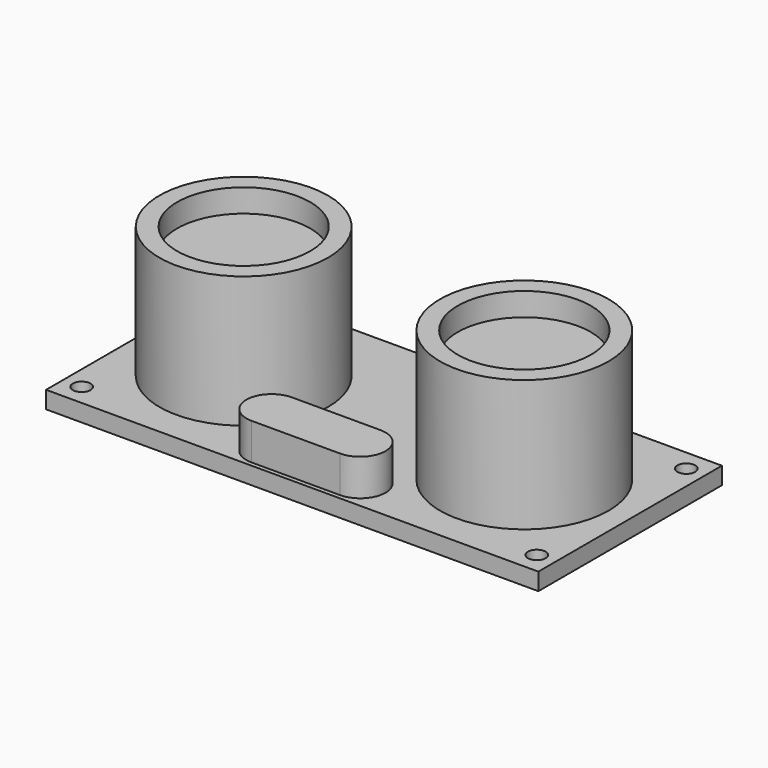
from build123d import *

# Parameters (mm, degrees)
F0_R     = 0.825
F0_R_2   = 7.825
F0_W     = 2.625
F0_H     = 2.7
F1_DEPTH = 1.6
F0_R_3   = 6.175
F2_DEPTH = 13.8
F3_DEPTH = 11.65
F4_DEPTH = 3.1
F5_W     = 0.8
F5_H     = 0.8
F6_DEPTH = 2.4
F8_DEPTH = 0.8
F9_DEPTH = 5
F10_R    = 0.3


with BuildPart() as f1:
    # F0 (on Top) → F1 (new body)
    with BuildSketch(Plane.XY):
        Polygon((22.85, -10.65), (22.85, 10.65), (5.25, 10.65), (5.25, 7.95), (2.625, 7.95), (0, 7.95), (-2.625, 7.95), (-5.25, 7.95), (-5.25, 10.65), (-22.85, 10.65), (-22.85, -10.65), align=None)
        with Locations((-21.125, -8.675)):
            Circle(F0_R, mode=Mode.SUBTRACT)
        with BuildLine():
            ThreePointArc((-4.1107536526, -10.25), (-6.4607536526, -7.9), (-4.1107536526, -5.55))
            Line((-4.1107536526, -5.55), (4.1107536526, -5.55))
            ThreePointArc((4.1107536526, -5.55), (6.4607536526, -7.9), (4.1107536526, -10.25))
            Line((4.1107536526, -10.25), (-4.1107536526, -10.25))
        make_face(mode=Mode.SUBTRACT)
        with Locations((21.125, -8.675)):
            Circle(F0_R, mode=Mode.SUBTRACT)
        with Locations((-13.025, 0)):
            Circle(F0_R_2, mode=Mode.SUBTRACT)
        with Locations((-21.125, 8.675)):
            Circle(F0_R, mode=Mode.SUBTRACT)
        with Locations((13.025, 0)):
            Circle(F0_R_2, mode=Mode.SUBTRACT)
        with Locations((21.125, 8.675)):
            Circle(F0_R, mode=Mode.SUBTRACT)
        with Locations((-3.9375, 9.3)):
            Rectangle(F0_W, F0_H)
        with Locations((-1.3125, 9.3)):
            Rectangle(F0_W, F0_H)
        with Locations((1.3125, 9.3)):
            Rectangle(F0_W, F0_H)
        with Locations((3.9375, 9.3)):
            Rectangle(F0_W, F0_H)
    extrude(amount=F1_DEPTH)

    # F0 (on Top) → F2 (join)
    with BuildSketch(Plane.XY):
        with Locations((13.025, 0)):
            Circle(F0_R_2)
        with Locations((13.025, 0)):
            Circle(F0_R_3, mode=Mode.SUBTRACT)
        with Locations((-13.025, 0)):
            Circle(F0_R_2)
        with Locations((-13.025, 0)):
            Circle(F0_R_3, mode=Mode.SUBTRACT)
    extrude(amount=F2_DEPTH)

    # F0 (on Top) → F3 (join)
    with BuildSketch(Plane.XY):
        with Locations((-13.025, 0)):
            Circle(F0_R_3)
        with Locations((13.025, 0)):
            Circle(F0_R_3)
    extrude(amount=F3_DEPTH)

    # F0 (on Top) → F4 (join)
    with BuildSketch(Plane.XY):
        with Locations((-3.9375, 9.3)):
            Rectangle(F0_W, F0_H)
        with Locations((-1.3125, 9.3)):
            Rectangle(F0_W, F0_H)
        with Locations((1.3125, 9.3)):
            Rectangle(F0_W, F0_H)
        with Locations((3.9375, 9.3)):
            Rectangle(F0_W, F0_H)
    extrude(amount=-F4_DEPTH)

    # F5 (on face) → F6 (join)
    with BuildSketch(Plane(origin=(0, 0, -3.1), x_dir=(1, 0, 0), z_dir=(0, 0, -1))):
        with Locations((-3.9375, -9.3)):
            Rectangle(F5_W, F5_H)
        with Locations((-1.3125100119, -9.3)):
            Rectangle(F5_W, F5_H)
        with Locations((1.3124799761, -9.3)):
            Rectangle(F5_W, F5_H)
        with Locations((3.9374699642, -9.3)):
            Rectangle(F5_W, F5_H)
    extrude(amount=F6_DEPTH)

    # F7 (on face) → F8 (join)
    with BuildSketch(Plane(origin=(0, 0, -5.5), x_dir=(1, 0, 0), z_dir=(0, 0, -1))):
        Polygon((-4.3375, -8.9), (-4.3375, -9.7), (-4.3375, -16.8), (-3.5375, -16.8), (-3.5375, -9.7), (-3.5375, -8.9), align=None)
        Polygon((-1.7125100119, -8.9), (-1.7125100119, -9.7), (-1.7125100119, -16.8), (-0.9125100119, -16.8), (-0.9125100119, -9.7), (-0.9125100119, -8.9), align=None)
        Polygon((0.9124799761, -8.9), (0.9124799761, -9.7), (0.9124799761, -16.8), (1.7124799761, -16.8), (1.7124799761, -9.7), (1.7124799761, -8.9), align=None)
        Polygon((3.5374699642, -8.9), (3.5374699642, -9.7), (3.5374699642, -16.8), (4.3374699642, -16.8), (4.3374699642, -9.7), (4.3374699642, -8.9), align=None)
    extrude(amount=-F8_DEPTH)

    # F0 (on Top) → F9 (join)
    with BuildSketch(Plane.XY):
        with BuildLine():
            Line((4.1107536526, -5.55), (-4.1107536526, -5.55))
            ThreePointArc((-4.1107536526, -5.55), (-6.4607536526, -7.9), (-4.1107536526, -10.25))
            Line((-4.1107536526, -10.25), (4.1107536526, -10.25))
            ThreePointArc((4.1107536526, -10.25), (6.4607536526, -7.9), (4.1107536526, -5.55))
        make_face()
    extrude(amount=F9_DEPTH)

    # F10
    f10_edges = [f1.edges().sort_by_distance(p)[0] for p in [
        (-3.9375, 8.9, -5.5),
        (-1.31251, 8.9, -5.5),
        (1.31248, 8.9, -5.5),
        (3.93747, 8.9, -5.5),
        (3.93747, 9.7, -4.7),
        (1.31248, 9.7, -4.7),
        (-1.31251, 9.7, -4.7),
        (-3.9375, 9.7, -4.7),
    ]]
    fillet(f10_edges, radius=F10_R)


solid = f1.part
